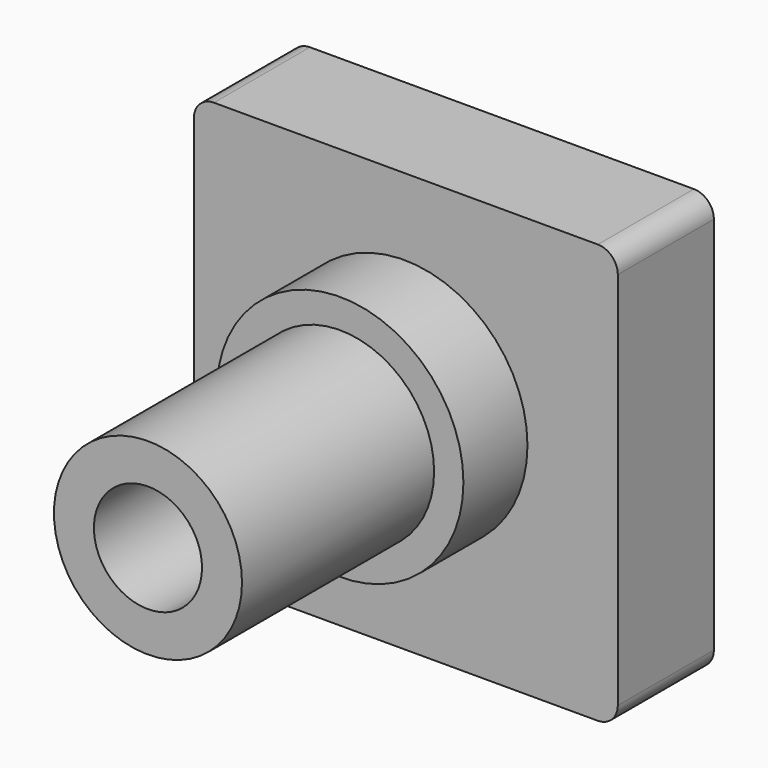
from build123d import *

# Parameters (mm, degrees)
F0_W     = 105.912518
F0_H     = 104.761295
F1_DEPTH = 30
F2_R     = 5
F3_R     = 30.813713
F3_R_2   = 23.380782
F4_DEPTH = 20
F5_R     = 23.490351
F5_R_2   = 13.503853
F6_DEPTH = 80


with BuildPart() as f1:
    # F0 (on Front) → F1 (new body)
    with BuildSketch(Plane.XZ):
        with Locations((0.431707, -2.446345)):
            Rectangle(F0_W, F0_H)
    extrude(amount=F1_DEPTH)

    # F2
    f2_edges = [f1.edges().sort_by_distance(p)[0] for p in [
        (53.387966, -15, 49.934302),
        (53.387966, -15, -54.826993),
        (-52.524552, -15, 49.934302),
        (-52.524552, -15, -54.826993),
    ]]
    fillet(f2_edges, radius=F2_R)

    # F3 (on face) → F4 (join)
    with BuildSketch(Plane.XZ.offset(30)):
        Circle(F3_R)
        Circle(F3_R_2, mode=Mode.SUBTRACT)
    extrude(amount=F4_DEPTH)

    # F5 (on face) → F6 (join)
    with BuildSketch(Plane.XZ.offset(30)):
        Circle(F5_R)
        Circle(F5_R_2, mode=Mode.SUBTRACT)
    extrude(amount=F6_DEPTH)


solid = f1.part
